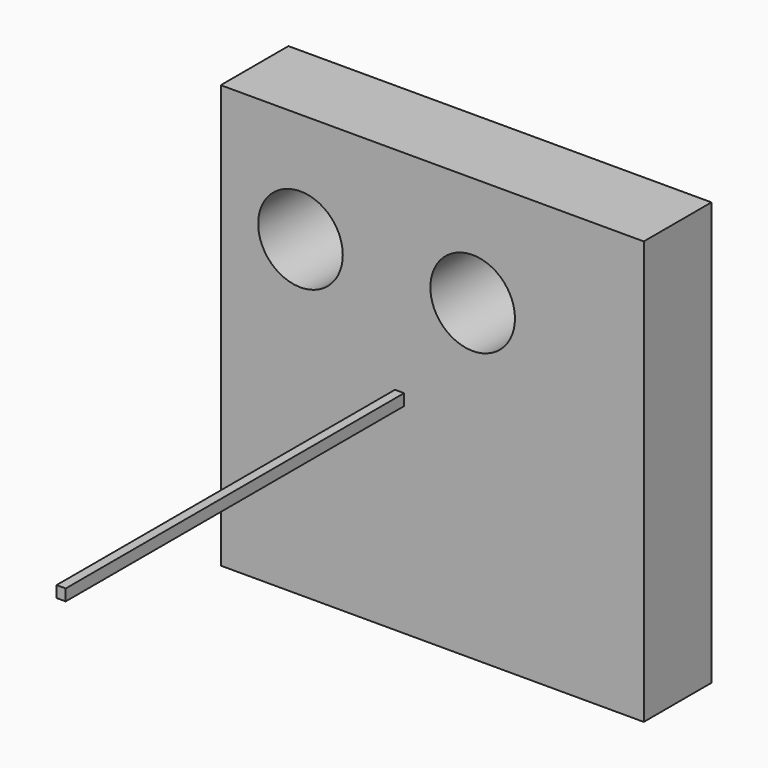
from build123d import *

# Parameters (mm, degrees)
F1_W     = 127
F1_H     = 127
F1_R     = 12.7
F2_DEPTH = 25.4
F3_W     = 2.7432
F3_H     = 3.429
F4_DEPTH = 127


with BuildPart() as f2:
    # F1 (on face) → F2 (new body)
    with BuildSketch(Plane.XZ):
        with Locations((-41.120251, 0)):
            Rectangle(F1_W, F1_H)
        with Locations((-80.684759, 30.529277)):
            Circle(F1_R, mode=Mode.SUBTRACT)
        with Locations((-28.991884, 30.529277)):
            Circle(F1_R, mode=Mode.SUBTRACT)
    extrude(amount=F2_DEPTH)

    # F3 (on face) → F4 (join)
    with BuildSketch(Plane.XZ.offset(25.4)):
        with Locations((-50.945073, -1.7145)):
            Rectangle(F3_W, F3_H)
    extrude(amount=F4_DEPTH)


solid = f2.part
